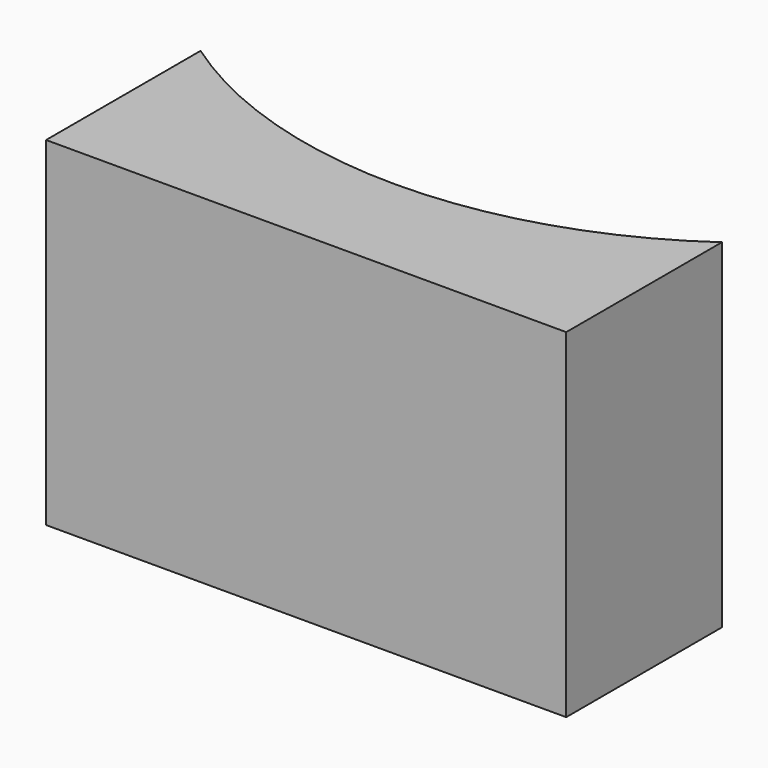
from build123d import *

# Parameters (mm, degrees)
EXTRUDE_DEPTH = 30


with BuildPart() as part:
    # Sketch002 → Extrude (new body)
    with BuildSketch(Plane.XY):
        with BuildLine():
            Line((-22.920828, -32.876619), (-22.920828, -49.966855))
            Line((-22.920828, -49.966855), (23.11019, -49.966855))
            Line((23.11019, -32.743787), (23.11019, -49.966855))
            ThreePointArc((-22.920828, -32.876619), (0.115653, -40.077713), (23.11019, -32.743787))
        make_face()
    extrude(amount=EXTRUDE_DEPTH)


solid = part.part
